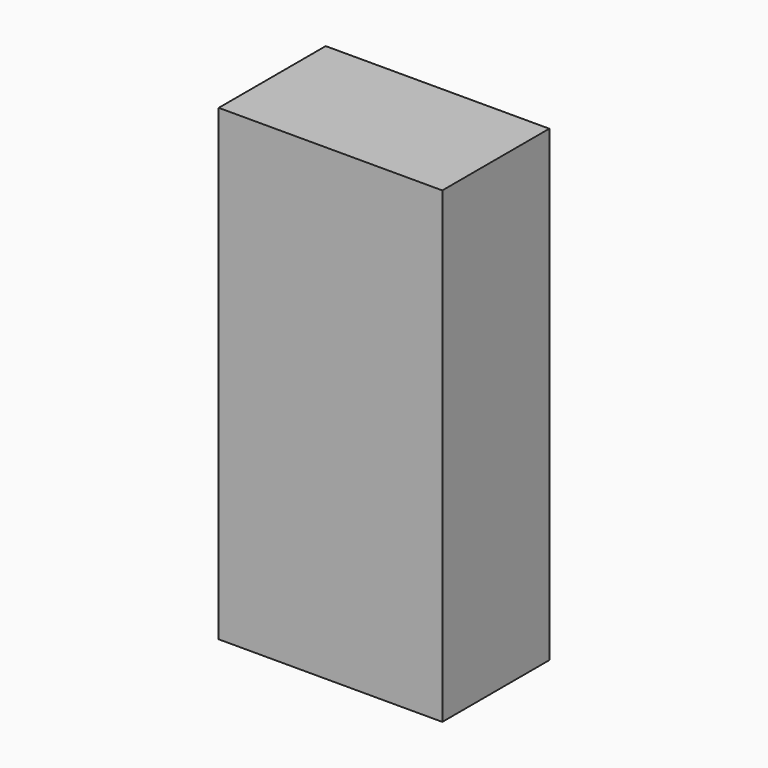
from build123d import *

# Parameters (mm, degrees)
F1_W     = 100
F1_H     = 59.8
F2_DEPTH = 209.27


with BuildPart() as f2:
    # F1 (on face) → F2 (new body)
    with BuildSketch(Plane.XY):
        with Locations((-410.12044, -92.629522)):
            Rectangle(F1_W, F1_H)
    extrude(amount=F2_DEPTH)


solid = f2.part
